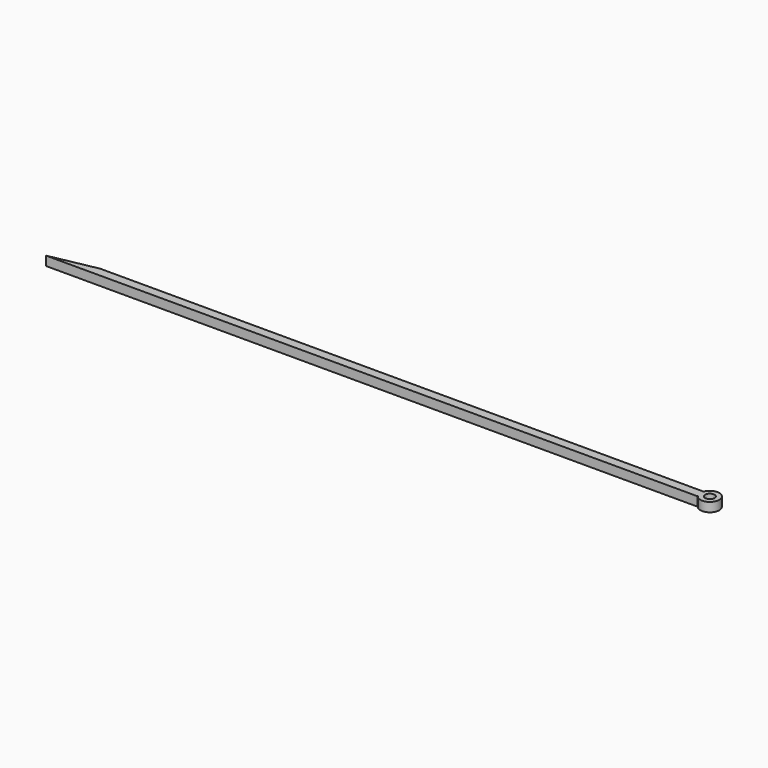
from build123d import *

# Parameters (mm, degrees)
F1_DEPTH = 3.175
F2_R     = 3.259298
F2_R_2   = 1.623439
F3_DEPTH = 3.175


with BuildPart() as f1:
    # F0 (on Top) → F1 (new body)
    with BuildSketch(Plane.XY):
        Polygon((116.863699, 10.095269), (-92.469156, 10.095269), (-108.635934, 6.920269), (116.863699, 6.920269), align=None)
    extrude(amount=F1_DEPTH)

    # F2 (on Top) → F3 (join)
    with BuildSketch(Plane.XY):
        with Locations((119.482264, 8.955535)):
            Circle(F2_R)
        with Locations((119.482264, 8.955535)):
            Circle(F2_R_2, mode=Mode.SUBTRACT)
    extrude(amount=F3_DEPTH)


solid = f1.part
